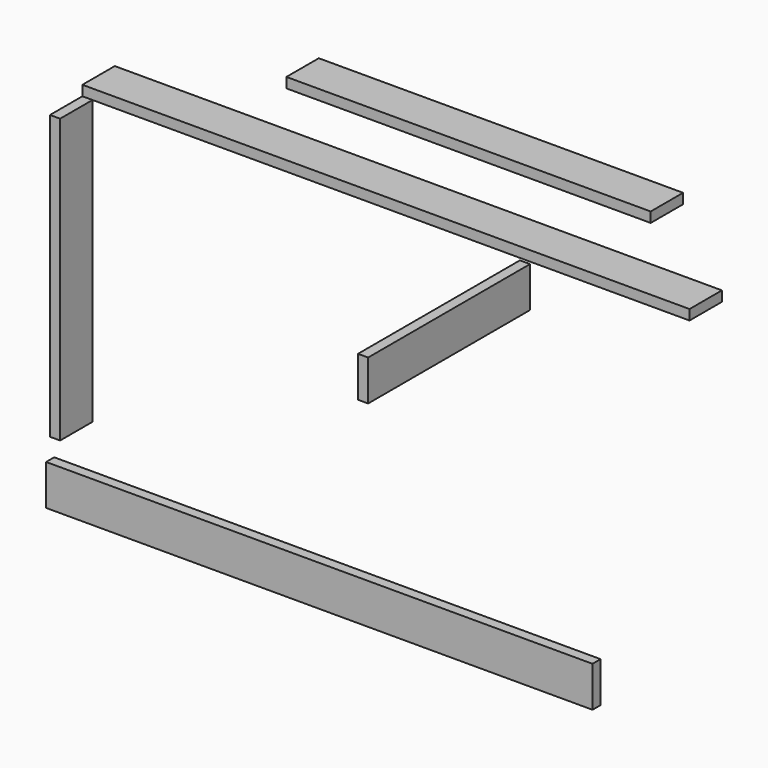
from build123d import *

# Parameters (mm, degrees)
F0_W     = 1524
F0_H     = 101.6
F1_DEPTH = 25.4
F2_W     = 101.6
F2_H     = 711.2
F3_DEPTH = 25.4
F4_W     = 914.4
F4_H     = 101.6
F5_DEPTH = 25.4
F6_W     = 508
F6_H     = 101.6
F7_DEPTH = 25.4
F8_W     = 1371.6
F8_H     = 101.6
F9_DEPTH = 25.4


with BuildPart() as f1:
    # F0 (on Top) → F1 (new body)
    with BuildSketch(Plane.XY):
        with Locations((762, 50.8)):
            Rectangle(F0_W, F0_H)
    extrude(amount=F1_DEPTH)


with BuildPart() as f3:
    # F2 (on Right) → F3 (new body)
    with BuildSketch(Plane.YZ):
        with Locations((-50.8, -355.6)):
            Rectangle(F2_W, F2_H)
    extrude(amount=F3_DEPTH)


with BuildPart() as f5:
    # F4 (on Top) → F5 (new body)
    with BuildSketch(Plane.XY):
        with Locations((748.619171, 326.652107)):
            Rectangle(F4_W, F4_H)
    extrude(amount=F5_DEPTH)


with BuildPart() as f7:
    # F6 (on Right) → F7 (new body)
    with BuildSketch(Plane.YZ):
        with Locations((1118.779244, -971.418232)):
            Rectangle(F6_W, F6_H)
    extrude(amount=F7_DEPTH)


with BuildPart() as f9:
    # F8 (on Front) → F9 (new body)
    with BuildSketch(Plane.XZ):
        with Locations((614.986509, -871.591932)):
            Rectangle(F8_W, F8_H)
    extrude(amount=F9_DEPTH)


solid = Compound([f1.part, f3.part, f5.part, f7.part, f9.part])
